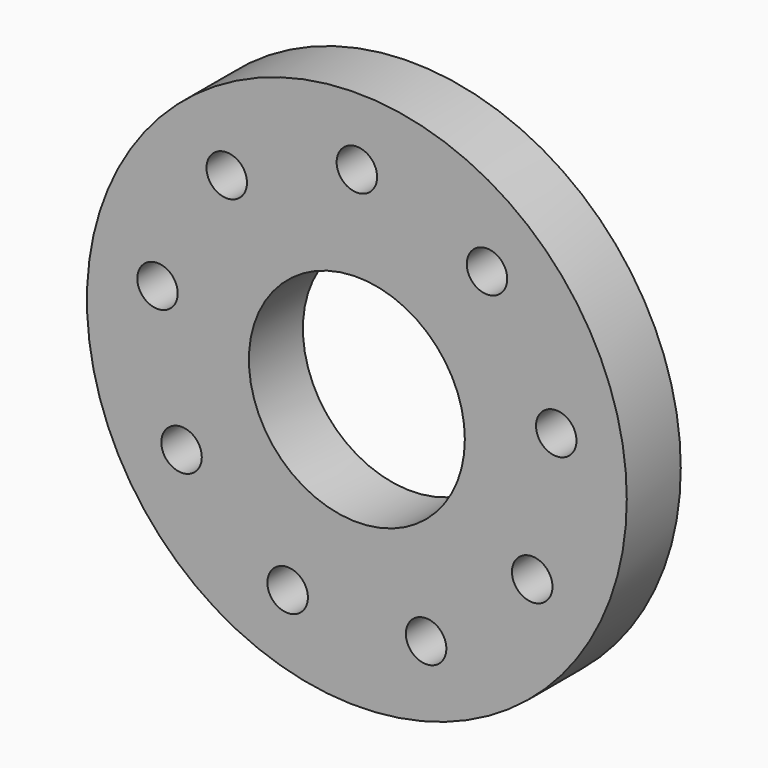
from build123d import *

# Parameters (mm, degrees)
F0_R     = 100
F0_R_2   = 7.5
F0_R_3   = 40
F1_DEPTH = 25


with BuildPart() as f1:
    # F0 (on Front) → F1 (new body)
    with BuildSketch(Plane.XZ):
        Circle(F0_R)
        with Locations((-25.651511, -70.476947)):
            Circle(F0_R_2, mode=Mode.SUBTRACT)
        with Locations((-64.951905, -37.5)):
            Circle(F0_R_2, mode=Mode.SUBTRACT)
        with Locations((25.651511, -70.476947)):
            Circle(F0_R_2, mode=Mode.SUBTRACT)
        with Locations((64.951905, -37.5)):
            Circle(F0_R_2, mode=Mode.SUBTRACT)
        with Locations((-73.860581, 13.023613)):
            Circle(F0_R_2, mode=Mode.SUBTRACT)
        with Locations((-48.209071, 57.453333)):
            Circle(F0_R_2, mode=Mode.SUBTRACT)
        Circle(F0_R_3, mode=Mode.SUBTRACT)
        with Locations((73.860581, 13.023613)):
            Circle(F0_R_2, mode=Mode.SUBTRACT)
        with Locations((48.209071, 57.453333)):
            Circle(F0_R_2, mode=Mode.SUBTRACT)
        with Locations((0, 75)):
            Circle(F0_R_2, mode=Mode.SUBTRACT)
    extrude(amount=F1_DEPTH)


solid = f1.part
